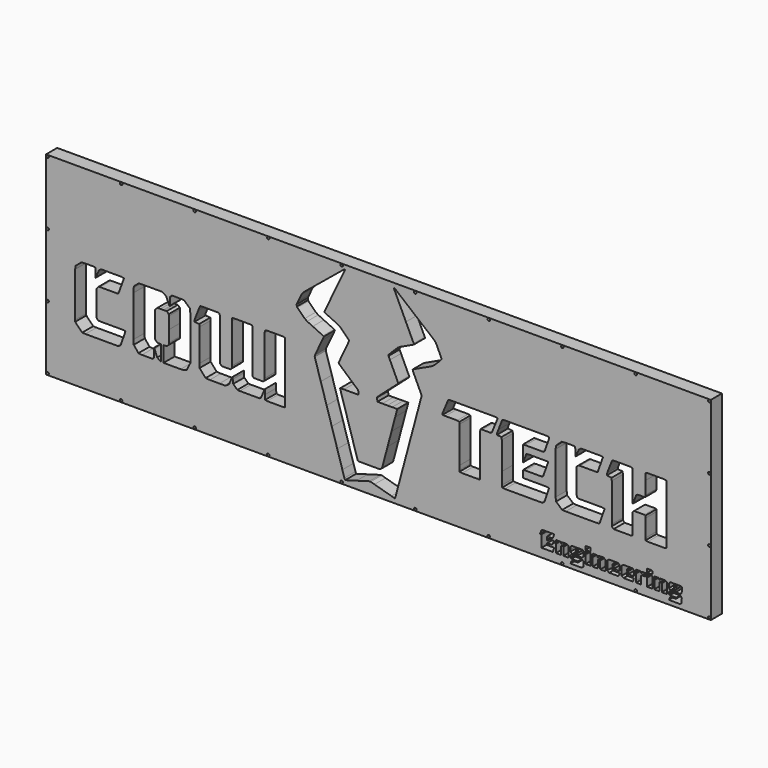
from build123d import *

# Parameters (mm, degrees)
F0_W     = 1219.2
F0_H     = 355.6
F0_R     = 2.2881346751
F2_DEPTH = 25.4
F3_DEPTH = 25.4


with BuildPart() as f2:
    # F0 (on Front) → F2 (new body)
    with BuildSketch(Plane.XZ):
        Rectangle(F0_W, F0_H)
        with BuildLine():
            ThreePointArc((-606.806, -172.7178653249), (-605.188044455, -173.388044455), (-604.5178653249, -175.006))
            ThreePointArc((-604.5178653249, -175.006), (-608.423955545, -176.623955545), (-606.806, -172.7178653249))
        make_face(mode=Mode.SUBTRACT)
        with BuildLine():
            ThreePointArc((-469.6721101249, -175.006), (-471.9602448, -177.2941346751), (-474.2483794751, -175.006))
            ThreePointArc((-474.2483794751, -175.006), (-471.9602448, -172.7178653249), (-469.6721101249, -175.006))
        make_face(mode=Mode.SUBTRACT)
        with BuildLine():
            ThreePointArc((-334.8263549249, -175.006), (-337.1144896, -177.2941346751), (-339.4026242751, -175.006))
            ThreePointArc((-339.4026242751, -175.006), (-337.1144896, -172.7178653249), (-334.8263549249, -175.006))
        make_face(mode=Mode.SUBTRACT)
        with BuildLine():
            ThreePointArc((-199.9805997249, -175.006), (-202.2687344, -177.2941346751), (-204.5568690751, -175.006))
            ThreePointArc((-204.5568690751, -175.006), (-202.2687344, -172.7178653249), (-199.9805997249, -175.006))
        make_face(mode=Mode.SUBTRACT)
        with BuildLine():
            ThreePointArc((-65.1348445249, -175.006), (-67.4229792, -177.2941346751), (-69.7111138751, -175.006))
            ThreePointArc((-69.7111138751, -175.006), (-67.4229792, -172.7178653249), (-65.1348445249, -175.006))
        make_face(mode=Mode.SUBTRACT)
        with BuildLine():
            ThreePointArc((-604.5178653249, -58.3353333333), (-605.188044455, -59.9532888784), (-606.806, -60.6234680084))
            ThreePointArc((-606.806, -60.6234680084), (-609.0941346751, -58.3353333333), (-606.806, -56.0471986582))
            ThreePointArc((-606.806, -56.0471986582), (-605.188044455, -56.7173777883), (-604.5178653249, -58.3353333333))
        make_face(mode=Mode.SUBTRACT)
        with BuildLine():
            ThreePointArc((69.7109106751, -175.006), (67.422776, -177.2941346751), (65.1346413249, -175.006))
            ThreePointArc((65.1346413249, -175.006), (67.422776, -172.7178653249), (69.7109106751, -175.006))
        make_face(mode=Mode.SUBTRACT)
        with BuildLine():
            ThreePointArc((204.5566658751, -175.006), (202.2685312, -177.2941346751), (199.9803965249, -175.006))
            ThreePointArc((199.9803965249, -175.006), (202.2685312, -172.7178653249), (204.5566658751, -175.006))
        make_face(mode=Mode.SUBTRACT)
        with BuildLine():
            ThreePointArc((339.4024210751, -175.006), (337.1142864, -177.2941346751), (334.8261517249, -175.006))
            ThreePointArc((334.8261517249, -175.006), (337.1142864, -172.7178653249), (339.4024210751, -175.006))
        make_face(mode=Mode.SUBTRACT)
        with BuildLine():
            ThreePointArc((474.2481762751, -175.006), (471.9600416, -177.2941346751), (469.6719069249, -175.006))
            ThreePointArc((469.6719069249, -175.006), (471.9600416, -172.7178653249), (474.2481762751, -175.006))
        make_face(mode=Mode.SUBTRACT)
        with BuildLine():
            ThreePointArc((609.0939314751, -175.006), (606.8057968, -177.2941346751), (604.5176621249, -175.006))
            ThreePointArc((604.5176621249, -175.006), (605.1879130986, -173.3879726145), (606.806, -172.7178653339))
            ThreePointArc((606.806, -172.7178653339), (608.4238241855, -173.3881162986), (609.0939314751, -175.006))
        make_face(mode=Mode.SUBTRACT)
        with BuildLine():
            ThreePointArc((609.0941346751, -58.3353333333), (608.423955545, -59.9532888784), (606.806, -60.6234680084))
            ThreePointArc((606.806, -60.6234680084), (604.5178653249, -58.3353333333), (606.806, -56.0471986582))
            ThreePointArc((606.806, -56.0471986582), (608.423955545, -56.7173777883), (609.0941346751, -58.3353333333))
        make_face(mode=Mode.SUBTRACT)
        with BuildLine():
            ThreePointArc((-604.5178653249, 58.3353333333), (-605.188044455, 56.7173777883), (-606.806, 56.0471986582))
            ThreePointArc((-606.806, 56.0471986582), (-609.0941346751, 58.3353333333), (-606.806, 60.6234680084))
            ThreePointArc((-606.806, 60.6234680084), (-605.188044455, 59.9532888784), (-604.5178653249, 58.3353333333))
        make_face(mode=Mode.SUBTRACT)
        with BuildLine():
            ThreePointArc((-604.5178653249, 175.006), (-605.188044455, 173.388044455), (-606.806, 172.7178653249))
            ThreePointArc((-606.806, 172.7178653249), (-608.423955545, 176.623955545), (-604.5178653249, 175.006))
        make_face(mode=Mode.SUBTRACT)
        with Locations((-471.9602448, 175.006)):
            Circle(F0_R, mode=Mode.SUBTRACT)
        with Locations((-337.1144896, 175.006)):
            Circle(F0_R, mode=Mode.SUBTRACT)
        with Locations((-202.2687344, 175.006)):
            Circle(F0_R, mode=Mode.SUBTRACT)
        with Locations((-67.4229792, 175.006)):
            Circle(F0_R, mode=Mode.SUBTRACT)
        with BuildLine():
            ThreePointArc((609.0941346751, 58.3353333333), (608.423955545, 56.7173777883), (606.806, 56.0471986582))
            ThreePointArc((606.806, 56.0471986582), (604.5178653249, 58.3353333333), (606.806, 60.6234680084))
            ThreePointArc((606.806, 60.6234680084), (608.423955545, 59.9532888784), (609.0941346751, 58.3353333333))
        make_face(mode=Mode.SUBTRACT)
        with Locations((67.422776, 175.006)):
            Circle(F0_R, mode=Mode.SUBTRACT)
        with Locations((202.2685312, 175.006)):
            Circle(F0_R, mode=Mode.SUBTRACT)
        with Locations((337.1142864, 175.006)):
            Circle(F0_R, mode=Mode.SUBTRACT)
        with Locations((471.9600416, 175.006)):
            Circle(F0_R, mode=Mode.SUBTRACT)
        with BuildLine():
            ThreePointArc((609.0939314751, 175.006), (608.4238241855, 173.3881162986), (606.806, 172.7178653339))
            ThreePointArc((606.806, 172.7178653339), (605.1877694145, 176.6238837014), (609.0939314751, 175.006))
        make_face(mode=Mode.SUBTRACT)
    extrude(amount=F2_DEPTH)

    # F1 (on face) → F3 (cut)
    with BuildSketch(Plane.XZ):
        Polygon((23.7925864, -168.027096), (30.2310292, -169.7761146), (31.3564778, -166.5181074), (33.0846176, -159.8652632), (43.4642768, -121.2233288), (53.1333202, -85.1915238), (58.6884272, -64.3203438), (66.6395924, -34.9403162), (74.9186208, -3.8703504), (78.7286716, 10.0985828), (78.4836124, 13.8989562), (77.4655804, 16.1357564), (71.7337148, 28.3706316), (63.089155, 46.8347044), (62.666245, 49.0243876), (64.083565, 49.7567712), (97.1893154, 65.3298668), (103.1723362, 69.5456064), (113.2258594, 79.6626042), (115.9460216, 83.1722492), (113.0657124, 89.4299202), (105.6602154, 105.2209478), (102.8603734, 108.9065894), (98.5256348, 112.538129), (78.5621746, 128.8981166), (64.169036, 140.8063986), (43.552872, 157.9259478), (29.4963088, 169.479595), (27.9509982, 170.2602132), (28.5067756, 168.328721), (31.9768982, 161.0010242), (50.375185, 121.8776836), (64.6171936, 91.6587194), (65.0670022, 90.0733022), (63.8853942, 89.3647438), (48.101377, 81.9627012), (38.9600186, 77.7681198), (34.7619828, 74.812652), (20.8745582, 60.8776786), (18.85315, 58.7286608), (18.5278268, 56.4932068), (21.0745832, 50.905156), (35.736403, 19.5212716), (36.3698536, 17.747234), (34.8379796, 16.2866832), (25.234646, 7.8514448), (0.1618234, -14.266418), (-2.0189698, -16.251809), (-2.6982166, -17.5001682), (-1.9448526, -24.1144806), (7.120382, -24.1528092), (16.220567, -24.1400838), (25.3137416, -24.0128044), (34.4705432, -23.9532668), (34.049589, -25.7305302), (30.7131212, -38.054026), (23.9678718, -63.430912), (16.7358822, -90.4552674), (6.4389, -128.8558764), (2.7868372, -131.6514258), (-22.0547692, -131.652137), (-35.0903794, -131.6417992), (-37.9210824, -131.1714928), (-70.3067936, -25.2385322), (-70.1909188, -24.398605), (-68.5645568, -24.1612166), (-63.1538742, -24.170132), (-39.2963654, -24.2035076), (-37.0359178, -23.6495844), (-36.8642646, -18.6943238), (-37.89426, -16.3190428), (-42.1023796, -12.5484128), (-63.629032, 6.5331848), (-71.3941168, 13.3362954), (-73.2267014, 15.5514294), (-53.6497276, 57.5413378), (-55.7990756, 59.9783662), (-70.0391538, 74.259313), (-73.2188274, 76.5260598), (-75.871324, 77.8141446), (-91.677998, 85.1397078), (-97.8945464, 88.0779544), (-99.3362758, 89.4057902), (-96.4402948, 95.5419476), (-80.6265342, 128.8276062), (-66.6098236, 158.337377), (-61.9695992, 168.1014672), (-61.4722164, 170.1796698), (-63.4046738, 169.3067734), (-71.4320644, 162.81273), (-100.3361976, 139.1412254), (-115.5544806, 126.6803918), (-137.0366576, 109.0638662), (-141.5095722, 103.3140428), (-147.490307, 90.3816836), (-149.9782116, 85.0381078), (-149.7000308, 81.5667152), (-148.6306146, 80.222725), (-135.189087, 66.8903666), (-130.7563044, 63.8446272), (-120.5393068, 59.0265266), (-101.6665988, 50.1117616), (-100.1747806, 49.192942), (-100.5881402, 47.971837), (-103.2899636, 42.186352), (-116.6337012, 13.7179558), (-116.9035762, 10.6741214), (-105.762933, -25.1884688), (-95.0779658, -60.4236282), (-85.6096078, -91.1569932), (-75.5309132, -124.2678998), (-66.2158696, -154.789886), (-62.4214652, -166.9815304), (-60.9702616, -169.8027084), (-59.483117, -169.5028868), (-40.14851, -164.0146834), (-16.573754, -157.2824134), (-14.1948916, -157.2939958), (-7.3740264, -159.2795392), align=None)
        Polygon((-204.6790166, 24.9764804), (-208.3011836, 24.1631978), (-208.729326, 19.3972942), (-208.7443882, -53.380005), (-208.8076088, -57.1290196), (-211.1927704, -59.4647528), (-212.6908878, -59.5315548), (-226.5710226, -59.5256366), (-228.8087626, -59.35218), (-230.9307548, -57.0770766), (-231.0512524, -52.9567648), (-231.057069, 18.3194198), (-231.1105106, 22.068282), (-231.7498032, 24.7019318), (-236.3315822, 24.982043), (-260.3405258, 24.9930158), (-265.96467, 24.9092974), (-268.614779, 24.2236244), (-268.7738846, 19.2728342), (-268.781657, -53.129307), (-268.8051266, -56.5050686), (-271.697831, -59.5005414), (-287.4527652, -59.498103), (-290.822888, -56.3005732), (-290.8650266, -52.92598), (-290.8801142, 19.4761612), (-291.2738142, 24.2521486), (-295.3129476, 24.9815604), (-323.0732426, 24.9730514), (-327.1723962, 24.5909846), (-328.7821212, 21.0243674), (-330.8212332, 15.7877764), (-337.4720454, -1.3237972), (-337.5513696, -4.1993058), (-328.754232, -4.8047656), (-328.2479846, -9.4038674), (-328.2310428, -68.3009556), (-328.0580434, -75.797029), (-317.0104404, -88.3948194), (-309.5413672, -88.8802642), (-291.53485, -88.901524), (-280.6557506, -88.8992634), (-274.0489058, -84.585683), (-268.3899636, -71.1148946), (-267.2795772, -70.2308476), (-267.2599684, -74.3039408), (-266.4681742, -81.3594766), (-258.8182276, -88.4983244), (-254.3436112, -88.8814072), (-220.5809914, -88.8920244), (-217.5896588, -88.7244606), (-215.580595, -87.2588552), (-214.508461, -84.8663276), (-209.2459112, -72.4460578), (-208.4957476, -70.907529), (-207.976597, -79.4927544), (-207.6527978, -87.9364764), (-204.3592052, -88.8726188), (-174.7235266, -88.8583694), (-171.9015612, -88.3988834), (-171.522517, -87.1223302), (-171.483401, 22.790912), (-171.7334894, 24.1435128), (-175.418115, 24.9779028), align=None)
        Polygon((-411.931612, -83.8875132), (-411.9231792, -70.4056504), (-411.3433988, -70.266306), (-410.6106342, -71.918322), (-405.7633998, -84.0934056), (-399.2698320999, -88.5691329285), (-399.2698320999, -60.2064714103), (-405.513159, -60.1871796), (-409.5799784, -56.3120794), (-409.6672274, -52.9388324), (-409.6653732, -11.2929924), (-409.5357062, -7.5470766), (-405.3561108, -3.7101526), (-399.7662165322, -3.697782922), (-394.7661208231, -3.6867183882), (-392.224895, -3.681095), (-388.4734674, -3.7014912), (-384.6484814, -7.0463156), (-384.5286188, -10.038461), (-384.5240722, -32.174561), (-384.5267392, -53.5602942), (-384.5999674, -56.558053), (-388.630795, -60.1934788), (-394.2696035913, -60.210524856), (-394.1828863289, -88.8964593098), (-362.7961502, -88.8835916), (-356.8203684, -88.5132596), (-351.6342726, -86.5471726), (-345.0943568, -73.4163124), (-345.1567138, 7.9497936), (-345.7761436, 14.6479514), (-356.7461496, 24.6143526), (-378.8466896, 24.9586242), (-382.6811498, 21.024723), (-382.7179544, 8.2764376), (-383.2687534, 6.1435742), (-383.9533342, 7.3957688), (-389.2746596, 20.1885296), (-396.3070306, 24.991695), (-433.0530074, 24.975439), (-439.7759556, 24.5356888), (-448.169284, 17.5601122), (-448.8722798, 14.6529298), (-449.4644808, 6.06425), (-449.4645316, -69.3025792), (-448.855846, -77.510513), (-440.1570572, -88.1524526), (-433.85613, -88.8660656), (-416.608514, -88.889967), (-413.6225662, -88.6892054), (-412.125922, -87.2480094), align=None)
        Polygon((524.2382962, -88.8893066), (527.8356982, -88.1013732), (528.1016108, -86.786593), (528.0973182, 19.7347078), (527.8113142, 21.0834986), (524.2073082, 21.8237308), (493.5639862, 21.8186762), (489.8921876, 20.8829402), (489.7225918, 17.8243484), (489.7131684, 8.7044022), (489.6970394, -15.007717), (488.82935, -18.6651138), (485.05237, -18.7590938), (475.567883, -18.7706762), (472.5367994, -20.8863692), (471.9066, -22.59584), (467.8533188, -33.5245202), (466.658706, -36.3895132), (466.213952, -36.2713524), (466.213952, -27.9878282), (466.213952, -19.9621648), (466.213952, -11.571732), (466.213952, -3.5460686), (466.213952, 4.844415), (466.1994486, 12.8697228), (465.8941914, 21.1049616), (461.8794674, 21.8299538), (432.6952738, 21.8291918), (428.5603824, 21.0487514), (426.5467466, 16.2186874), (419.3187956, -2.469007), (418.6524266, -6.4155066), (427.4876642, -7.2507094), (427.9016842, -12.0469406), (427.910498, -82.0890916), (427.9245696, -85.372067), (431.262663, -88.8818644), (431.992024, -88.8964186), (462.2705766, -88.8886462), (465.8112604, -88.198071), (466.2004138, -84.2802734), (466.214587, -52.5425162), (466.2306144, -49.9892574), (468.8367814, -47.3524326), (487.4400462, -47.3815156), (489.6142862, -48.0180142), (489.7087996, -52.1059156), (489.7193152, -84.2085692), (489.8390254, -87.991696), (493.5949742, -88.8905004), align=None)
        Polygon((264.7849416, -35.597084), (265.274044, -6.0411614), (269.3936192, -6.0411614), (299.6738736, -6.0395104), (302.5918002, -6.0084208), (304.7767336, -4.4194476), (305.4415024, -2.7231848), (312.6288388, 18.3040782), (313.2082636, 21.053044), (308.0353758, 21.8271852), (232.517061, 21.8391232), (229.9659358, 21.787231), (227.2203482, 21.2469476), (225.5925892, 17.3587156), (220.0342818, 3.1025338), (217.1968478, -4.3933872), (217.1657582, -6.4337946), (225.6105724, -7.0987158), (226.1819962, -11.4446558), (226.1949248, -62.519814), (226.2082852, -84.774024), (226.7409486, -88.3553732), (231.726867, -88.895047), (298.1245752, -88.9017272), (300.6776562, -88.887554), (304.3335036, -86.1158806), (312.2628248, -63.0374914), (312.522743, -60.9702616), (308.0790384, -60.3677482), (269.4078686, -60.3464122), (265.2005618, -59.9905328), (265.2635284, -47.2071192), (269.1369776, -46.9126316), (297.228387, -46.8978996), (301.2008962, -46.7546182), (302.3100634, -44.6904618), (310.5708292, -21.7240358), (310.8520326, -19.4079368), (307.4238708, -19.0439548), (274.9546952, -19.0362586), (271.1597066, -19.8370444), (269.8879032, -22.9363524), (265.7398292, -34.2216232), align=None)
        Polygon((405.4374416, -88.302084), (414.7401408, -61.4988356), (409.7173416, -60.6277172), (369.9710406, -60.6062034), (365.9742998, -60.3953326), (363.9100672, -58.6158086), (363.3510386, -54.6797992), (363.3370432, -12.7456184), (363.5907384, -9.8540824), (367.1603528, -6.8311776), (369.711732, -6.8006976), (398.154017, -6.7849496), (402.0220306, -6.3218314), (411.830139, 21.1719414), (407.3055354, 21.8304364), (378.498608, 21.8403424), (371.5711136, 21.8444318), (367.4884954, 19.020917), (362.1660524, 6.2476126), (361.1361586, 5.2819808), (361.1198772, 13.2070348), (360.8098956, 21.1289392), (356.8342622, 21.8318588), (344.071956, 21.8234006), (336.0764678, 21.3999826), (325.5492346, 11.6137944), (324.899528, 5.469763), (324.9053954, -71.8348068), (325.7100166, -78.688057), (336.9526154, -88.5060206), (343.4912866, -88.8861062), (399.2819802, -88.9014732), (402.5614758, -88.849708), align=None)
        Polygon((-518.8632752, 7.7637386), (-519.2609884, 24.5896638), (-523.9582612, 24.9758962), (-535.2076926, 24.9799602), (-544.5608108, 24.582882), (-555.6813626, 15.2697688), (-556.2863144, 9.3314774), (-556.2857556, -72.4182194), (-556.2325934, -75.416537), (-543.3954842, -88.543638), (-537.4169846, -88.8863094), (-479.6672144, -88.9003556), (-476.66783, -88.886157), (-472.8126688, -86.144227), (-464.7386184, -62.7874792), (-464.2892416, -60.4635062), (-466.55355, -59.8974926), (-470.3000246, -59.8120216), (-510.0498816, -59.799474), (-514.1582808, -59.5776812), (-516.6314788, -57.1047118), (-516.7571834, -54.115462), (-516.7609426, -10.2405942), (-516.74141, -8.3660742), (-513.0232056, -4.4931584), (-510.3995888, -4.46151), (-481.524691, -4.4560998), (-477.5089256, -4.3622468), (-476.5524124, -2.9686758), (-467.1983036, 22.7092256), (-466.9832672, 24.2158012), (-471.776679, 24.9841258), (-506.6515394, 24.9939048), (-508.5260594, 24.9792744), (-512.7131224, 22.0612716), (-517.8756978, 9.6063308), align=None)
        Polygon((132.3777896, 21.8251532), (128.1622024, 21.5020652), (124.6051356, 13.099923), (117.7057082, -3.3692084), (117.4536132, -6.29031), (119.0137828, -6.6446146), (122.6603592, -6.6977006), (144.5500538, -6.716141), (148.2103462, -7.7360526), (148.2104224, -11.8203726), (148.210524, -78.2193), (148.2327998, -85.8803718), (148.5578182, -88.188673), (153.3999726, -88.8921514), (180.3973532, -88.9007366), (184.0419484, -88.8270512), (186.5386668, -88.1530368), (186.637803, -83.6524108), (186.6423496, -12.51077), (186.6622124, -9.2279724), (186.984132, -6.9498972), (190.3418342, -6.711315), (203.110719, -6.6962274), (206.0275026, -6.6298572), (208.0242982, -5.2654962), (208.4881276, -4.2774616), (218.1198584, 19.3376296), (218.5009346, 21.0836764), (214.0994448, 21.8333828), align=None)
        Polygon((352.7929444, -168.7673536), (352.3850204, -169.9451262), (354.0910114, -170.2602132), (371.4301436, -170.2585114), (373.168164, -170.1270918), (375.612025, -167.8032458), (375.818527, -165.6691632), (375.818273, -160.5618836), (375.607961, -158.4283598), (373.0811944, -156.2261798), (371.8719512, -156.2104572), (360.178096, -156.2086792), (359.1076638, -156.1648896), (358.6168596, -155.776168), (358.5762196, -154.3446748), (359.0616898, -153.9547848), (360.3969424, -153.862786), (363.9165348035, -153.8596663555), (363.9121738336, -148.9396069086), (362.0509142, -148.895689), (361.9803022, -145.815939), (363.5524352, -145.5313066), (365.7377496, -144.2186854), (366.1753916, -143.4603176), (366.3127294, -144.6163224), (366.300385, -148.09978), (365.6473764, -148.9805504), (364.6276180942, -148.9564883878), (364.6319635388, -153.8590322243), (371.6875472, -153.8527784), (373.5578762, -153.7103606), (375.6228708, -151.7002046), (375.8188064, -149.8355144), (375.8265026, -142.4428952), (375.7901298, -141.5037302), (375.1230496, -140.8049254), (373.9169306, -140.7466578), (356.5778238, -140.7508996), (354.4357148, -140.895324), (352.3447106, -143.110204), (352.3332298, -143.9163492), (352.332671, -147.814284), (352.3386908, -151.040084), (354.9601994, -153.8467332), (355.496622, -153.8784832), (355.8205482, -154.2786348), (355.0049288, -154.8515826), (352.900996, -156.2967664), (352.3654116, -157.0228762), (352.4043752, -160.6461862), (353.966526, -162.0413574), (355.0412, -162.0572578), (364.4500458, -162.0627188), (365.6414328, -162.1762568), (366.310672, -163.058602), (366.2791252, -163.7279682), (365.7481128, -164.2510812), (364.6748358, -164.2873778), (357.8198076, -164.2888002), (356.0724654, -164.2894606), (354.0167672, -165.6428996), align=None)
        Polygon((556.2863398, -142.387193), (556.2027738, -141.0219684), (554.4580224, -140.7467594), (536.986353, -140.7516362), (534.7113766, -140.9129008), (532.8164858, -142.8815532), (532.797131, -143.4184076), (532.802592, -151.0789968), (535.3088608, -153.8465808), (536.3624274, -154.1320768), (535.875484, -154.5527008), (533.331293, -156.3051738), (532.821261, -157.0472094), (532.8421652, -160.5383632), (534.4446004, -162.0437196), (535.5192998, -162.0573594), (544.9270788, -162.066097), (546.238176, -162.25647), (546.696646, -162.6912164), (545.633783, -164.2900448), (544.96208, -164.288724), (536.6294576, -164.290756), (535.2182082, -164.3277892), (532.9177302, -169.969815), (534.4406888, -170.2601878), (552.046775, -170.2586892), (553.5168762, -170.1420778), (556.104171, -167.5030432), (556.2487732, -159.8555604), (556.1054918, -158.6569598), (553.4928732, -156.2249098), (552.2837062, -156.2104572), (540.7255124, -156.209238), (539.653099, -156.1809424), (539.115635, -155.8560256), (539.0512714, -154.302333), (540.097091, -153.8715998), (541.1719428, -153.8595856), (544.1098213196, -153.8576693523), (544.1098213196, -149.0264732667), (543.0454722, -149.0248988), (542.35096, -148.35632), (542.4045286, -145.789904), (543.3195128, -145.5452004), (544.6531652, -145.5056526), (545.912294, -144.7124868), (546.5236974, -143.5430708), (546.7660896, -143.5806628), (546.7564376, -148.0837018), (545.8442728, -149.029039), (544.8715687984, -149.0276001018), (544.8715687984, -153.8571724983), (552.1924694, -153.8523974), (554.0618332, -153.7026136), (556.0806252, -151.6456454), (556.2801676, -149.5101404), align=None)
        Polygon((296.5534836, -140.1915916), (298.6654936, -140.3457442), (298.8899026, -142.0626572), (298.8994784, -160.0715874), (299.1850252, -161.9754698), (300.1941418, -162.0535748), (318.4717786, -162.0532446), (319.5719288, -161.9627952), (320.4599128, -159.5411084), (321.3182804, -156.9986192), (321.9425362, -154.5831554), (320.4618178, -154.3686524), (310.7854338, -154.360372), (309.3750988, -154.202384), (309.2206668, -152.704165), (309.365015, -151.1714782), (310.8701682, -150.9989868), (317.9929378, -151.0011458), (319.4053556, -150.0458518), (321.4360856, -144.3583346), (321.5564054, -143.6456614), (320.4681424, -143.4492432), (312.0014588, -143.4412422), (311.4658998, -143.4797994), (310.6672476, -144.090771), (309.593107, -146.9849232), (309.2136818, -147.3879958), (309.2206668, -141.1958822), (309.3853096, -140.2221224), (310.897397, -140.1465574), (318.1546596, -140.1382516), (319.9055578, -139.7787146), (322.066285, -133.5020444), (322.0765212, -132.7444132), (320.536951, -132.5839868), (300.9153748, -132.5807102), (300.243621, -132.5824882), (298.9400676, -133.4950594), (296.7151546, -139.2545856), align=None)
        Polygon((390.9175062, -146.5926964), (392.5417346, -146.8152004), (392.7517164, -148.510625), (392.7611398, -160.2091792), (393.0371362, -161.9485204), (396.0778718, -162.0526604), (399.0359558, -162.0534224), (402.1010754, -161.953702), (402.2646006, -160.4322166), (402.2674454, -148.733637), (402.2803486, -147.6583026), (403.1861888, -146.7325996), (405.7405144, -146.7287642), (406.6482342, -147.6248508), (406.6591816, -148.700236), (406.6665984, -160.5332578), (406.8978908, -161.9342964), (415.8934278, -161.9213678), (416.165284, -160.5115154), (416.1589086, -145.1823868), (415.927794, -143.186531), (413.427164, -140.906881), (411.1508668, -140.7515092), (405.0999264, -140.7450068), (404.2933748, -140.7584434), (403.0879416, -141.6049746), (402.3985094, -143.3534344), (402.0405218, -144.1285662), (401.8237582, -141.0383006), (400.2318132, -140.7488168), (394.4497826, -140.7464546), (393.5101096, -140.784453), (392.6233956, -141.4726914), (390.92505, -145.9983872), align=None)
        Polygon((528.624419, -162.029775), (529.1200746, -161.8733872), (529.2039454, -160.8789772), (529.1962746, -144.618583), (528.9543142, -143.0362392), (526.4796684, -140.9038838), (524.6072566, -140.7543286), (517.8881946, -140.7498074), (516.395462, -141.0909802), (515.3598278, -143.6237666), (515.0258178, -143.897604), (514.8587112, -141.0007848), (513.3817774, -140.7478008), (507.4689114, -140.747115), (506.6637568, -140.7791952), (505.6669592, -141.5221198), (504.0669878, -145.794857), (503.991372, -146.610324), (505.7652318, -146.8320914), (505.897769, -148.34108), (505.9040428, -160.4355694), (506.0466384, -161.8769432), (506.4449358, -162.0258634), (514.507099, -162.0474534), (515.1286116, -161.9494856), (515.4061828, -160.2134718), (515.4127868, -148.656548), (515.4532998, -147.4490828), (516.2596482, -146.7336156), (518.9462316, -146.7420738), (519.6454936, -147.4098144), (519.6962174, -148.7506296), (519.6991384, -159.9044554), (519.7238272, -161.1125302), (519.964797, -161.9907352), (520.8308862, -162.0534732), align=None)
        Polygon((334.2017954, -162.0421448), (334.7028612, -161.92627), (334.9451772, -160.1902562), (334.9509938, -148.7649552), (335.0014636, -147.4238098), (335.6972204, -146.7452996), (338.5180936, -146.7461124), (339.193759, -147.4387958), (339.2343736, -148.6465404), (339.2409776, -160.2062582), (339.496781, -161.9196914), (339.865462, -162.0290638), (348.0635152, -162.0331278), (348.6622694, -161.8315788), (348.7383678, -161.1118698), (348.7317638, -144.4444152), (348.454853, -142.8686754), (346.1239712, -140.9169394), (343.9833862, -140.7532618), (337.531583, -140.7517886), (336.1149742, -140.881862), (334.9492158, -143.5355778), (334.5556682, -144.0879516), (334.3871392, -140.950569), (333.5951164, -140.773023), (326.3376506, -140.7648442), (325.1637896, -141.6578066), (323.6529214, -145.6787536), (323.5321444, -146.6044058), (325.3061566, -146.8342504), (325.4355188, -148.3584536), (325.4422498, -160.455864), (325.6152238, -161.9259398), (326.1373208, -162.0386142), align=None)
        Polygon((435.6670738, -152.9142738), (442.2527604, -152.9088382), (442.3677716, -151.8202196), (442.3678986, -144.2945806), (442.3312718, -143.6239698), (439.6777084, -140.9090908), (437.1338984, -140.751179), (424.2327558, -140.7504424), (422.2259018, -140.8854942), (419.8763256, -142.9540194), (419.6606796, -144.8129184), (419.6599176, -157.5796188), (419.8544816, -159.4433184), (423.0840662, -162.0542606), (439.2104754, -162.0529144), (440.2931504, -161.9566738), (442.205237, -156.9003466), (442.2125268, -156.3874698), (440.745245, -156.215207), (431.0693944, -156.2092126), (429.9948728, -156.190696), (429.2421184, -155.5341822), (429.3410006, -152.9325618), (430.9213189362, -152.927993269), (430.9079002905, -148.286297333), (430.0675676, -148.7830654), (429.3857046, -149.9180136), (429.1677472, -149.868636), (429.1739448, -146.4124326), (430.0466888, -145.422112), (432.181381, -145.4045098), (432.9174984, -146.0601092), (432.9771884, -146.721957), (431.7609856, -148.0032346), (431.4006551034, -148.0171330294), (431.4148477498, -152.92656653), align=None)
        Polygon((464.246214, -152.9093208), (468.6384582, -152.806908), (468.7257834, -151.7478042), (468.7235482, -144.6252632), (468.6575082, -143.4185854), (466.0814402, -140.908532), (463.8057272, -140.7521442), (450.3669682, -140.751179), (448.4948866, -140.8928602), (446.2364964, -142.88897), (446.0183866, -144.6133252), (446.016126, -157.7833522), (446.1823436, -159.3803518), (449.497196, -162.0553274), (465.4893662, -162.0541082), (466.5847158, -161.9789496), (467.6938576, -159.228663), (468.5463324, -156.2561518), (467.0194368, -156.2119304), (457.34351, -156.2086792), (456.270487, -156.1767006), (455.6053118, -155.5961074), (455.7690148, -152.9136388), (457.4612379074, -152.9136388), (457.4612379074, -148.5276326418), (456.0412774, -149.4306892), (455.531474, -150.149179), (455.5383574, -146.2924938), (456.2529102, -145.4460642), (458.6612366, -145.440654), (459.1344386, -145.845784), (459.3226272, -146.8854568), (458.3111992, -147.9870802), (457.9491317272, -148.2173453405), (457.9491317272, -152.9136388), (460.080233, -152.9136388), align=None)
        Polygon((488.623864, -146.6164454), (490.761401, -140.9558268), (488.020741, -140.7501376), (485.4667456, -140.7500106), (482.861366, -140.9708128), (481.6057424, -143.7498776), (481.601145, -142.2305258), (481.3475768, -140.9091416), (480.5976418, -140.7714482), (473.473526, -140.7785348), (472.7559252, -140.9476226), (470.68359, -145.8628274), (470.5716268, -146.4636898), (472.3199342, -147.0753218), (472.3618442, -148.5758522), (472.3643334, -158.6588902), (472.3746204, -160.9442552), (472.691714, -161.9526352), (473.0593028, -162.0374966), (481.1250728, -162.0404938), (481.8181372, -161.8722188), (481.8722392, -160.3715868), (481.8754396, -148.80971), (481.8930418, -147.7349598), (482.9264154, -146.7281546), (483.7327638, -146.7177914), (487.6315114, -146.7113906), align=None)
        Polygon((494.248059, -140.752576), (492.818166, -140.8943588), (490.8032348, -146.1601344), (490.8345022, -146.5246752), (492.7009704, -147.0378822), (492.721011, -148.4307166), (492.728758, -160.5179162), (492.975646, -161.958274), (493.4815378, -162.0440498), (501.4051186, -162.0438212), (502.1107814, -161.893377), (502.226453, -160.541462), (502.228104, -142.276322), (500.694452, -140.7500614), align=None)
        Polygon((379.5825784, -160.1390752), (379.8509294, -161.960306), (380.4063512, -162.0462596), (388.196455, -162.045904), (389.0286098, -161.8877128), (389.0859122, -160.3818992), (389.0886554, -153.1288784), (389.0830674, -142.3836624), (388.9121254, -140.9801346), (381.2499614, -140.748131), (379.6958624, -141.0895578), (377.7161356, -146.0814198), (377.7624398, -146.6100954), (379.3842044, -146.826351), (379.5749584, -148.4536782), align=None)
        Polygon((388.9629508, -138.9628666), (388.930769, -132.7498488), (388.2332596, -132.6011572), (380.5874024, -132.5969154), (379.607064, -133.5665604), (379.6081562, -138.260455), (379.852428, -139.0451372), (380.2104664, -139.1531126), (388.2577198, -139.1674128), align=None)
        Polygon((492.873284, -132.7954164), (492.8332536, -138.8717314), (493.0261158, -139.0660668), (500.3904902, -139.180316), (502.058305, -138.9772938), (502.21896, -137.9963458), (502.2244464, -133.8380102), (502.1795138, -133.3044324), (501.4940694, -132.6128666), (501.0930542, -132.5869332), (493.7152432, -132.5986172), align=None)
    extrude(amount=F3_DEPTH, mode=Mode.SUBTRACT)


solid = f2.part
